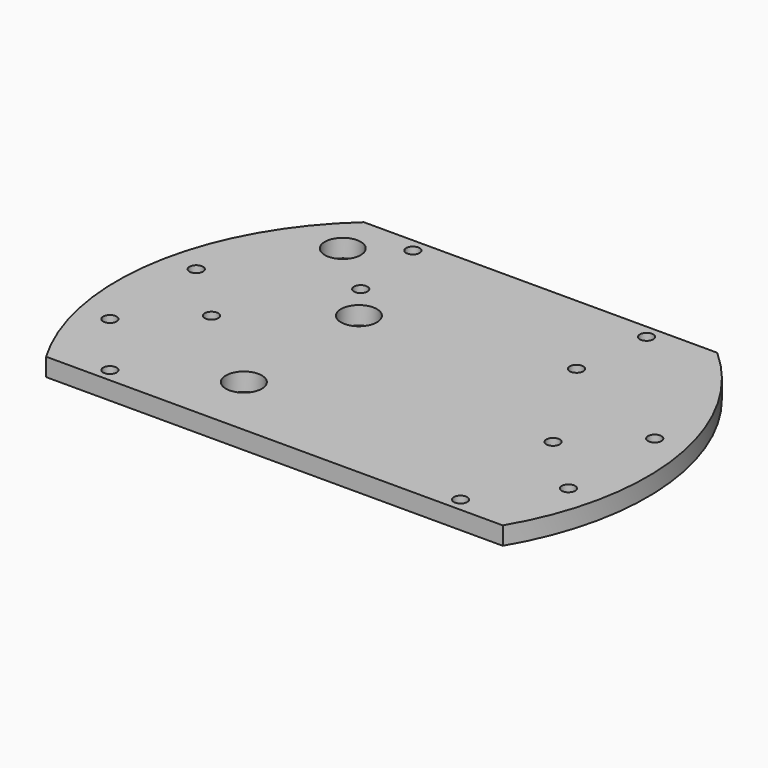
from build123d import *

# Parameters (mm, degrees)
CYLINDER1474_R     = 1.5
CYLINDER1474_DEPTH = 100
CYLINDER1473_R     = 1.5
CYLINDER1473_DEPTH = 100
CYLINDER1472_R     = 1.5
CYLINDER1472_DEPTH = 32
CYLINDER1471_R     = 1.5
CYLINDER1471_DEPTH = 32
BOX516_W           = 200
BOX516_H           = 100
BOX516_DEPTH       = 100
BOX515_W           = 200
BOX515_H           = 100
BOX515_DEPTH       = 100
CYLINDER1464_R     = 4
CYLINDER1464_DEPTH = 100
CYLINDER1465_R     = 4
CYLINDER1465_DEPTH = 100
CYLINDER1466_R     = 4
CYLINDER1466_DEPTH = 100
CYLINDER1467_R     = 4
CYLINDER1467_DEPTH = 100
CYLINDER1468_R     = 4
CYLINDER1468_DEPTH = 100
CYLINDER1469_R     = 4
CYLINDER1469_DEPTH = 100
CYLINDER1470_R     = 4
CYLINDER1470_DEPTH = 100
CYLINDER1463_R     = 4
CYLINDER1463_DEPTH = 100
CYLINDER1456_R     = 1.5
CYLINDER1456_DEPTH = 100
CYLINDER1457_R     = 1.5
CYLINDER1457_DEPTH = 100
CYLINDER1458_R     = 1.5
CYLINDER1458_DEPTH = 100
CYLINDER1459_R     = 1.5
CYLINDER1459_DEPTH = 100
CYLINDER1460_R     = 1.5
CYLINDER1460_DEPTH = 100
CYLINDER1461_R     = 1.5
CYLINDER1461_DEPTH = 100
CYLINDER1462_R     = 1.5
CYLINDER1462_DEPTH = 100
CYLINDER1455_R     = 1.5
CYLINDER1455_DEPTH = 100
CYLINDER1454_R     = 59
CYLINDER1454_DEPTH = 4


with BuildPart() as obj1:
    # Cylinder1474 → Cylinder1474 (new body)
    with BuildSketch(Plane(origin=(14, 0, -60), x_dir=(1, 0, 0), z_dir=(0, 0, 1))):
        Circle(CYLINDER1474_R)
    extrude(amount=CYLINDER1474_DEPTH)


with BuildPart() as obj2:
    # Cylinder1473 → Cylinder1473 (new body)
    with BuildSketch(Plane(origin=(90, 0, -60), x_dir=(1, 0, 0), z_dir=(0, 0, 1))):
        Circle(CYLINDER1473_R)
    extrude(amount=CYLINDER1473_DEPTH)

    # Compound888: union obj1
    add(obj1.part)


with BuildPart() as obj3:
    # Cylinder1472 → Cylinder1472 (new body)
    with BuildSketch(Plane(origin=(78, 41, -42), x_dir=(1, 0, 0), z_dir=(0, 0, 1))):
        Circle(CYLINDER1472_R)
    extrude(amount=CYLINDER1472_DEPTH)


with BuildPart() as compound887:
    # Cylinder1471 → Cylinder1471 (new body)
    with BuildSketch(Plane(origin=(26, 41, -42), x_dir=(1, 0, 0), z_dir=(0, 0, 1))):
        Circle(CYLINDER1471_R)
    extrude(amount=CYLINDER1471_DEPTH)

    # Compound887: union obj3
    add(obj3.part)


with BuildPart() as krychle516:
    # Box516 → Box516 (new body)
    with BuildSketch(Plane(origin=(-60, 44, -90), x_dir=(1, 0, 0), z_dir=(0, 0, 1))):
        with Locations((100, 50)):
            Rectangle(BOX516_W, BOX516_H)
    extrude(amount=BOX516_DEPTH)


with BuildPart() as krychle515:
    # Box515 → Box515 (new body)
    with BuildSketch(Plane(origin=(-60, -130, -90), x_dir=(1, 0, 0), z_dir=(0, 0, 1))):
        with Locations((100, 50)):
            Rectangle(BOX515_W, BOX515_H)
    extrude(amount=BOX515_DEPTH)


with BuildPart() as obj4:
    # Cylinder1464 → Cylinder1464 (new body)
    with BuildSketch(Plane(origin=(-16, 34, -90), x_dir=(1, 0, 0), z_dir=(0, 0, 1))):
        Circle(CYLINDER1464_R)
    extrude(amount=CYLINDER1464_DEPTH)


with BuildPart() as obj5:
    # Cylinder1465 → Cylinder1465 (new body)
    with BuildSketch(Plane(origin=(-16, -34, -90), x_dir=(1, 0, 0), z_dir=(0, 0, 1))):
        Circle(CYLINDER1465_R)
    extrude(amount=CYLINDER1465_DEPTH)


with BuildPart() as obj6:
    # Cylinder1466 → Cylinder1466 (new body)
    with BuildSketch(Plane(origin=(34, -16, -90), x_dir=(1, 0, 0), z_dir=(0, 0, 1))):
        Circle(CYLINDER1466_R)
    extrude(amount=CYLINDER1466_DEPTH)


with BuildPart() as obj7:
    # Cylinder1467 → Cylinder1467 (new body)
    with BuildSketch(Plane(origin=(16, 34, -90), x_dir=(1, 0, 0), z_dir=(0, 0, 1))):
        Circle(CYLINDER1467_R)
    extrude(amount=CYLINDER1467_DEPTH)


with BuildPart() as obj8:
    # Cylinder1468 → Cylinder1468 (new body)
    with BuildSketch(Plane(origin=(16, -34, -90), x_dir=(1, 0, 0), z_dir=(0, 0, 1))):
        Circle(CYLINDER1468_R)
    extrude(amount=CYLINDER1468_DEPTH)


with BuildPart() as obj9:
    # Cylinder1469 → Cylinder1469 (new body)
    with BuildSketch(Plane(origin=(-34, 16, -90), x_dir=(1, 0, 0), z_dir=(0, 0, 1))):
        Circle(CYLINDER1469_R)
    extrude(amount=CYLINDER1469_DEPTH)


with BuildPart() as obj10:
    # Cylinder1470 → Cylinder1470 (new body)
    with BuildSketch(Plane(origin=(34, 16, -90), x_dir=(1, 0, 0), z_dir=(0, 0, 1))):
        Circle(CYLINDER1470_R)
    extrude(amount=CYLINDER1470_DEPTH)


with BuildPart() as obj11:
    # Cylinder1463 → Cylinder1463 (new body)
    with BuildSketch(Plane(origin=(-34, -16, -90), x_dir=(1, 0, 0), z_dir=(0, 0, 1))):
        Circle(CYLINDER1463_R)
    extrude(amount=CYLINDER1463_DEPTH)

    # Compound886: union obj4, obj5, obj6, obj7, obj8, obj9, obj10
    add(obj4.part)
    add(obj5.part)
    add(obj6.part)
    add(obj7.part)
    add(obj8.part)
    add(obj9.part)
    add(obj10.part)


with BuildPart() as obj12:
    # Cylinder1456 → Cylinder1456 (new body)
    with BuildSketch(Plane(origin=(103, 12, -60), x_dir=(1, 0, 0), z_dir=(0, 0, 1))):
        Circle(CYLINDER1456_R)
    extrude(amount=CYLINDER1456_DEPTH)


with BuildPart() as obj13:
    # Cylinder1457 → Cylinder1457 (new body)
    with BuildSketch(Plane(origin=(76, 24, -60), x_dir=(1, 0, 0), z_dir=(0, 0, 1))):
        Circle(CYLINDER1457_R)
    extrude(amount=CYLINDER1457_DEPTH)


with BuildPart() as obj14:
    # Cylinder1458 → Cylinder1458 (new body)
    with BuildSketch(Plane(origin=(91, -27, -60), x_dir=(1, 0, 0), z_dir=(0, 0, 1))):
        Circle(CYLINDER1458_R)
    extrude(amount=CYLINDER1458_DEPTH)


with BuildPart() as obj15:
    # Cylinder1459 → Cylinder1459 (new body)
    with BuildSketch(Plane(origin=(13, -27, -60), x_dir=(1, 0, 0), z_dir=(0, 0, 1))):
        Circle(CYLINDER1459_R)
    extrude(amount=CYLINDER1459_DEPTH)


with BuildPart() as obj16:
    # Cylinder1460 → Cylinder1460 (new body)
    with BuildSketch(Plane(origin=(28, 24, -60), x_dir=(1, 0, 0), z_dir=(0, 0, 1))):
        Circle(CYLINDER1460_R)
    extrude(amount=CYLINDER1460_DEPTH)


with BuildPart() as obj17:
    # Cylinder1461 → Cylinder1461 (new body)
    with BuildSketch(Plane(origin=(1, -12, -60), x_dir=(1, 0, 0), z_dir=(0, 0, 1))):
        Circle(CYLINDER1461_R)
    extrude(amount=CYLINDER1461_DEPTH)


with BuildPart() as obj18:
    # Cylinder1462 → Cylinder1462 (new body)
    with BuildSketch(Plane(origin=(1, 12, -60), x_dir=(1, 0, 0), z_dir=(0, 0, 1))):
        Circle(CYLINDER1462_R)
    extrude(amount=CYLINDER1462_DEPTH)


with BuildPart() as obj19:
    # Cylinder1455 → Cylinder1455 (new body)
    with BuildSketch(Plane(origin=(103, -12, -60), x_dir=(1, 0, 0), z_dir=(0, 0, 1))):
        Circle(CYLINDER1455_R)
    extrude(amount=CYLINDER1455_DEPTH)

    # Compound885: union obj12, obj13, obj14, obj15, obj16, obj17, obj18
    add(obj12.part)
    add(obj13.part)
    add(obj14.part)
    add(obj15.part)
    add(obj16.part)
    add(obj17.part)
    add(obj18.part)


with BuildPart() as cut509:
    # Cylinder1454 → Cylinder1454 (new body)
    with BuildSketch(Plane(origin=(52, 0, -26), x_dir=(1, 0, 0), z_dir=(0, 0, 1))):
        Circle(CYLINDER1454_R)
    extrude(amount=CYLINDER1454_DEPTH)

    # Cut505: cut obj19
    add(obj19.part, mode=Mode.SUBTRACT)

    # Cut506: cut obj11
    add(obj11.part, mode=Mode.SUBTRACT)

    # Cut507: cut Krychle515
    add(krychle515.part, mode=Mode.SUBTRACT)

    # Cut508: cut Krychle516
    add(krychle516.part, mode=Mode.SUBTRACT)

    # Cut729: cut Compound887
    add(compound887.part, mode=Mode.SUBTRACT)

    # Cut509: cut obj2
    add(obj2.part, mode=Mode.SUBTRACT)


solid = cut509.part
